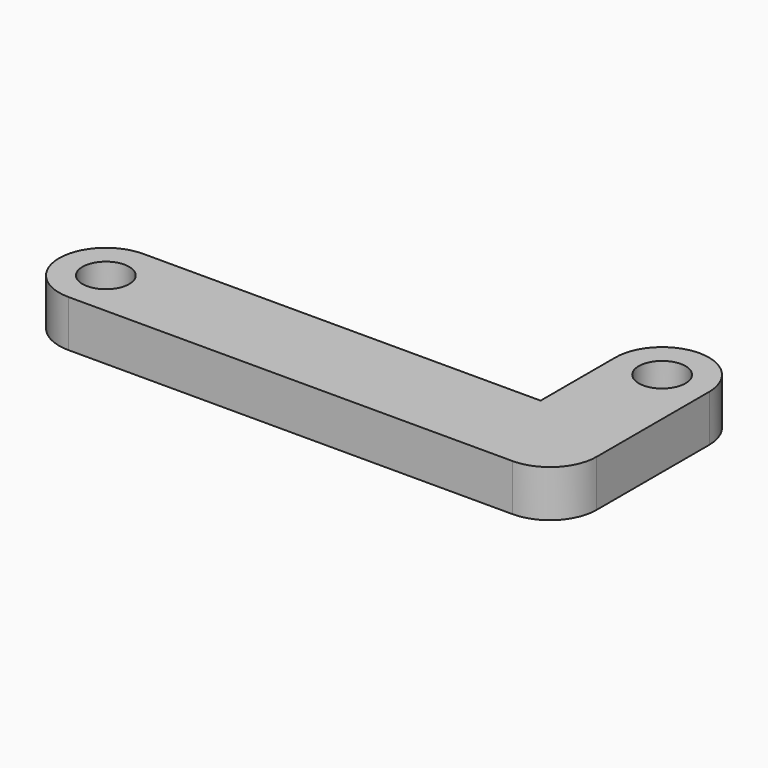
from build123d import *

# Parameters (mm, degrees)
F0_R     = 2.5
F1_DEPTH = 5


with BuildPart() as f1:
    # F0 (on Top) → F1 (new body)
    with BuildSketch(Plane.XY):
        with BuildLine():
            ThreePointArc((0, 5), (-5, 0), (0, -5))
            Line((0, -5), (47.5, -5))
            ThreePointArc((47.5, -5), (51.035534, -3.535534), (52.5, 0))
            Line((52.5, 0), (52.5, 0.000226))
            Line((52.5, 0.000226), (52.499659, 15.058397))
            ThreePointArc((52.499659, 15.058397), (47.470801, 19.999915), (42.5, 15))
            Line((42.5, 15), (42.5, 5))
            Line((42.5, 5), (0, 5))
        make_face()
        Circle(F0_R, mode=Mode.SUBTRACT)
        with Locations((47.5, 15)):
            Circle(F0_R, mode=Mode.SUBTRACT)
    extrude(amount=F1_DEPTH)


solid = f1.part
